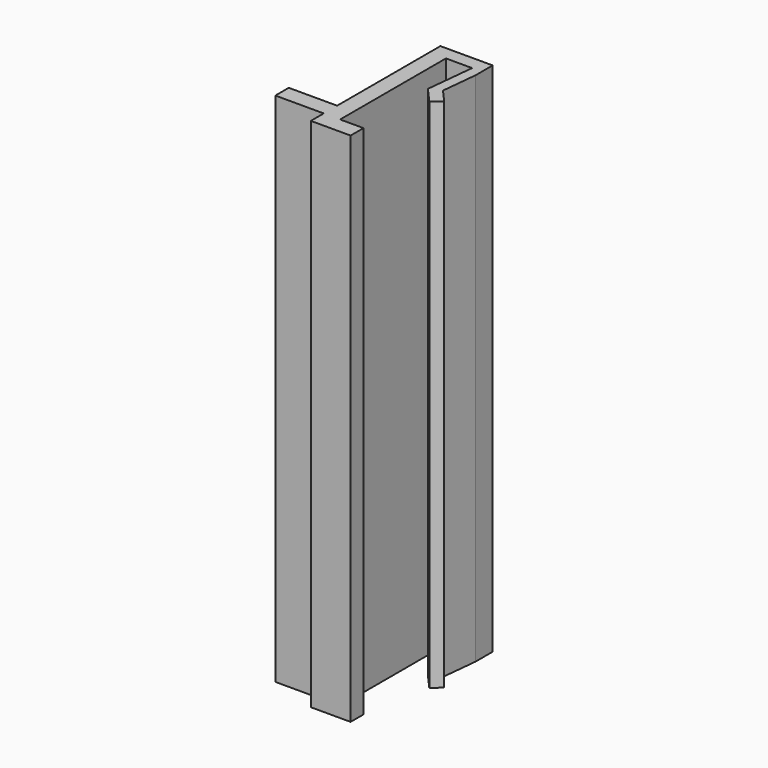
from build123d import *

# Parameters (mm, degrees)
F1_DEPTH = 101.6


with BuildPart() as f1:
    # F0 (on Top) → F1 (new body)
    with BuildSketch(Plane.XY):
        Polygon((-19.402276, 10.226434), (-19.402276, 36.261434), (-14.246076, 36.261434), (-15.236676, 26.609434), (-12.417276, 23.434434), (-10.707944, 24.95232), (-13.072098, 27.614656), (-12.341076, 34.737434), (-12.341076, 38.928434), (-22.628076, 38.928434), (-22.628076, 13.528434), (-32.153076, 13.528434), (-32.153076, 10.226434), (-22.628076, 10.226434), (-22.628076, 7.051434), (-14.804876, 7.051434), (-14.804876, 10.226434), align=None)
    extrude(amount=F1_DEPTH)


solid = f1.part
